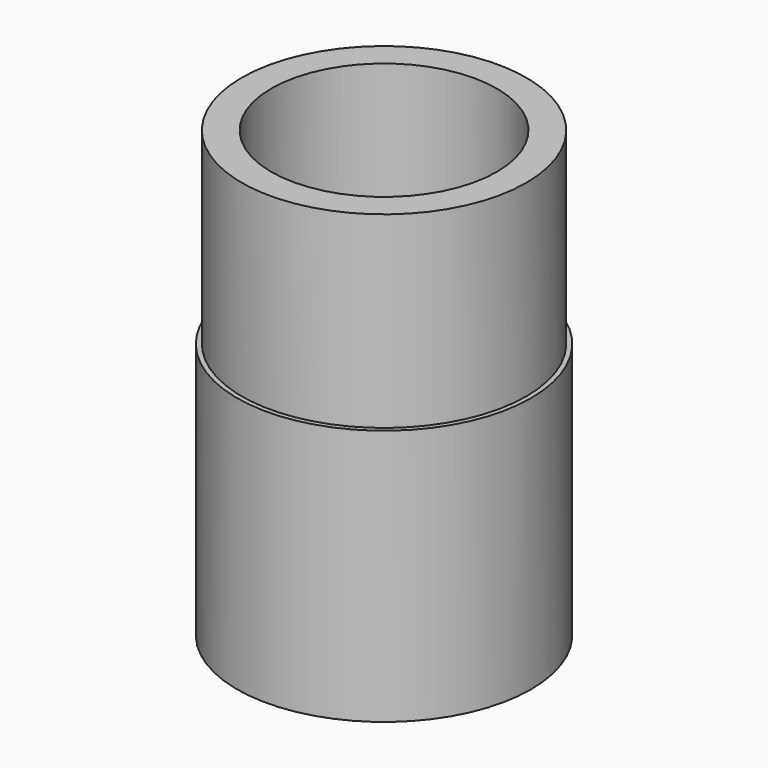
from build123d import *

# Parameters (mm, degrees)
F0_R     = 17.2
F1_DEPTH = 30
F2_R     = 16.65
F3_DEPTH = 22
F4_R     = 13.2
F5_DEPTH = 25
F6_R     = 13.2
F7_DEPTH = 30


with BuildPart() as f1:
    # F0 (on Top) → F1 (new body)
    with BuildSketch(Plane.XY):
        Circle(F0_R)
    extrude(amount=F1_DEPTH)

    # F2 (on face) → F3 (join)
    with BuildSketch(Plane.XY.offset(30)):
        Circle(F2_R)
    extrude(amount=F3_DEPTH)

    # F4 (on face) → F5 (cut)
    with BuildSketch(Plane.XY.offset(52)):
        Circle(F4_R)
    extrude(amount=-F5_DEPTH, mode=Mode.SUBTRACT)

    # F6 (on face) → F7 (cut)
    with BuildSketch(Plane(origin=(0, 0, 0), x_dir=(1, 0, 0), z_dir=(0, 0, -1))):
        Circle(F6_R)
    extrude(amount=-F7_DEPTH, mode=Mode.SUBTRACT)


solid = f1.part
